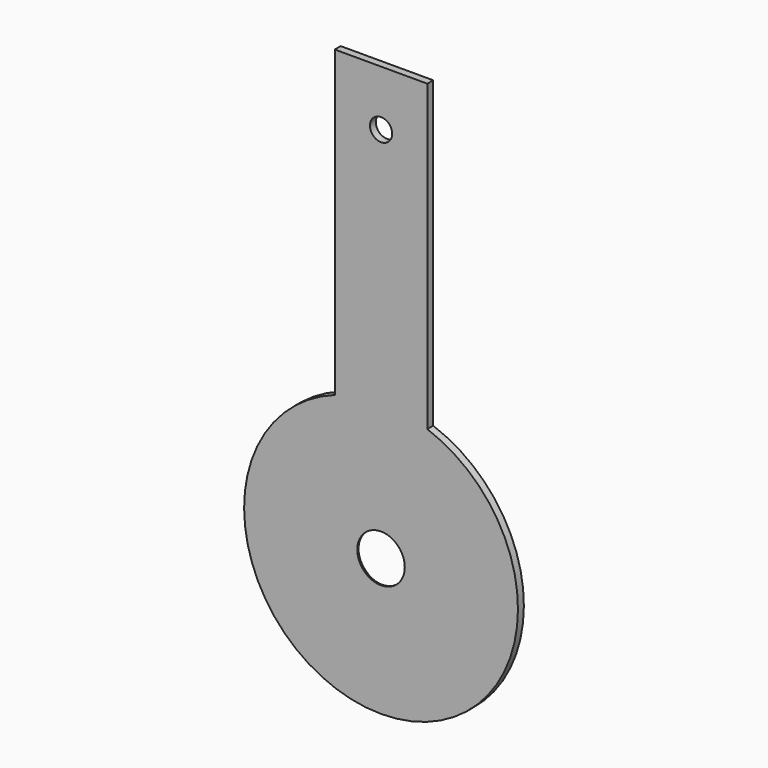
from build123d import *

# Parameters (mm, degrees)
F0_R     = 37
F0_R_2   = 6.41
F1_DEPTH = 2
F3_DEPTH = 2
F4_R     = 3
F5_DEPTH = 2.001
F6_SIZE2 = 1.6
F6_SIZE  = 1.6


with BuildPart() as f1:
    # F0 (on Front) → F1 (new body)
    with BuildSketch(Plane.XZ):
        Circle(F0_R)
        Circle(F0_R_2, mode=Mode.SUBTRACT)
    extrude(amount=-F1_DEPTH)

    # F2 (on face) → F3 (join)
    with BuildSketch(Plane.XZ):
        with BuildLine():
            Line((12.5, 117), (-12.5, 117))
            Line((-12.5, 117), (-12.5, 34.82456))
            ThreePointArc((-12.5, 34.82456), (0, 37), (12.5, 34.82456))
            Line((12.5, 34.82456), (12.5, 117))
        make_face()
    extrude(amount=-F3_DEPTH)

    # F4 (on face) → F5 (cut, through all)
    with BuildSketch(Plane.XZ):
        with Locations((0, 102)):
            Circle(F4_R)
    extrude(amount=-F5_DEPTH, mode=Mode.SUBTRACT)

    # F6
    f6_edges = [f1.edges().sort_by_distance(p)[0] for p in [
        (-6.41, 2, 0),
    ]]
    chamfer(f6_edges, length=F6_SIZE, length2=F6_SIZE2)


solid = f1.part
